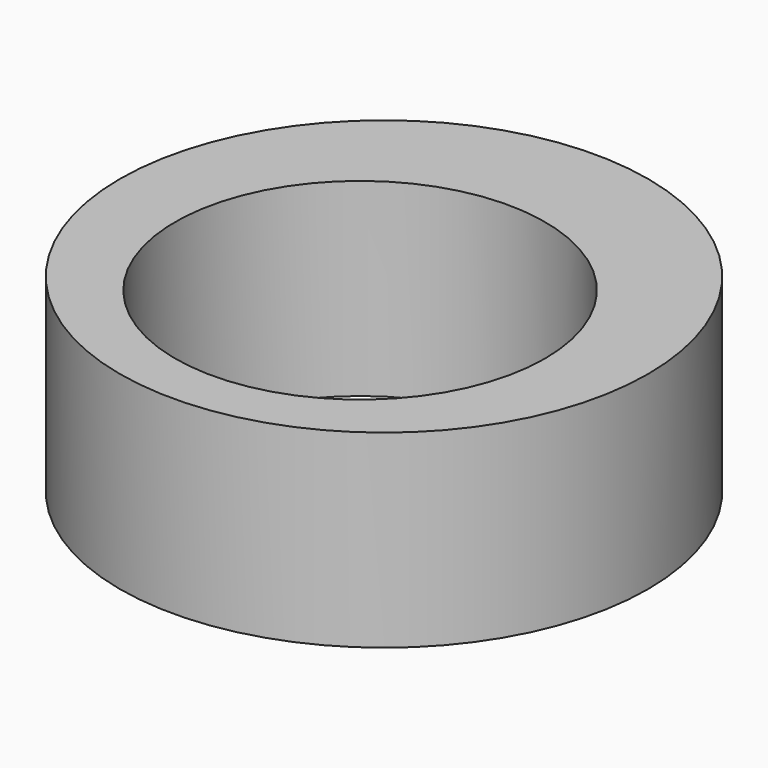
from build123d import *

# Parameters (mm, degrees)
F0_R     = 26.5
F1_DEPTH = 19
F2_R     = 18.555
F3_DEPTH = 19.001


with BuildPart() as f1:
    # F0 (on Top) → F1 (new body)
    with BuildSketch(Plane.XY):
        Circle(F0_R)
        Circle(F0_R)
    extrude(amount=F1_DEPTH)

    # F2 (on face) → F3 (cut, through all)
    with BuildSketch(Plane.XY.offset(19)):
        with Locations((0, -3)):
            Circle(F2_R)
    extrude(amount=-F3_DEPTH, mode=Mode.SUBTRACT)


solid = f1.part
